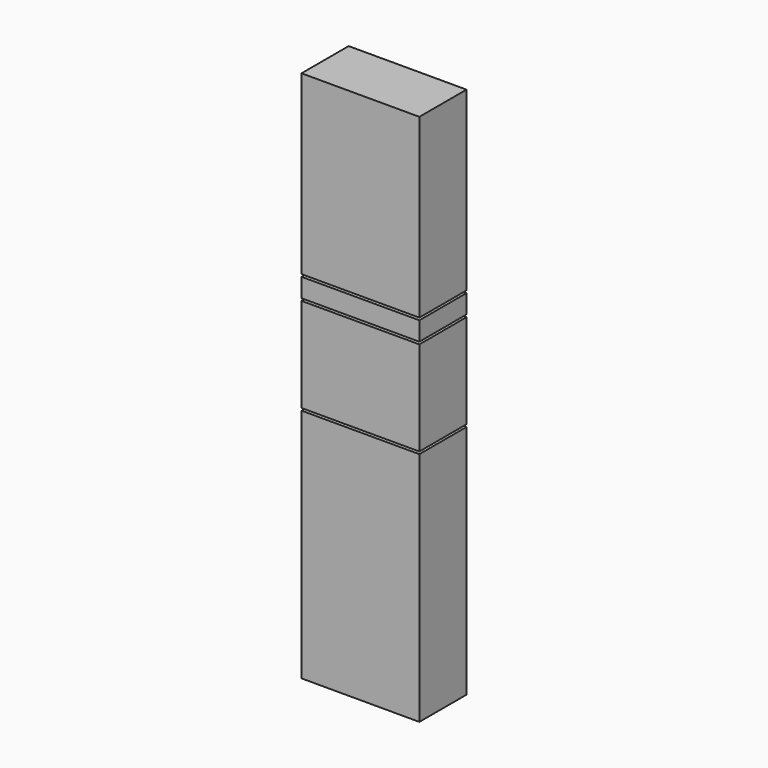
from build123d import *

# Parameters (mm, degrees)
F0_W     = 50
F0_H     = 100
F0_H_2   = 40
F0_H_3   = 8
F0_H_4   = 75
F1_DEPTH = 25


with BuildPart() as f1:
    # F0 (on Front) → F1 (new body)
    with BuildSketch(Plane.XZ):
        with Locations((25, 50)):
            Rectangle(F0_W, F0_H)
        with Locations((25, 121)):
            Rectangle(F0_W, F0_H_2)
        with Locations((25, 146)):
            Rectangle(F0_W, F0_H_3)
        with Locations((25, 188.5)):
            Rectangle(F0_W, F0_H_4)
    extrude(amount=-F1_DEPTH)


solid = f1.part
